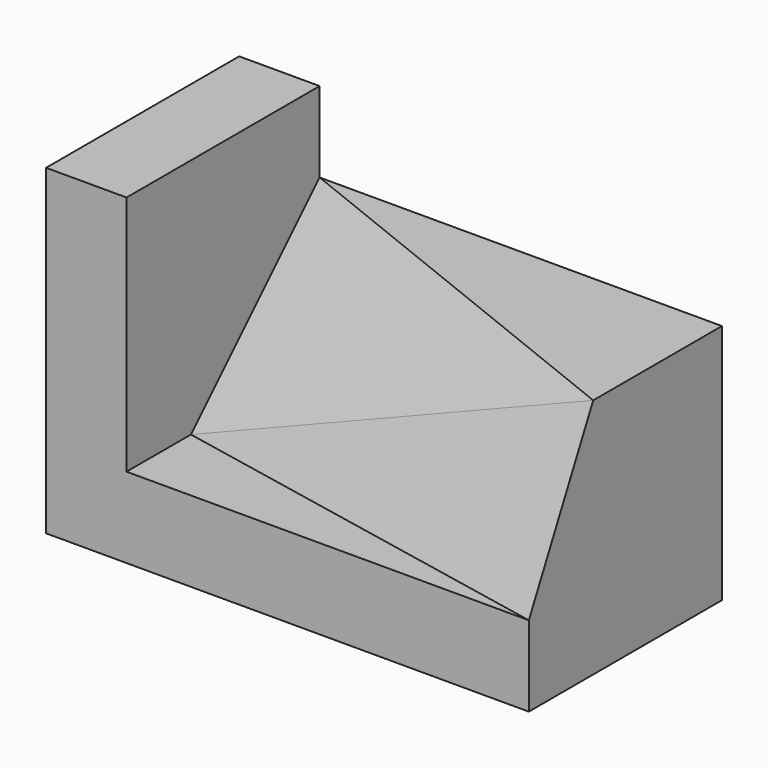
from build123d import *

# Parameters (mm, degrees)
F0_W      = 6
F0_H      = 3
F1_DEPTH  = 4
F2_W      = 5
F2_H      = 3
F3_DEPTH  = 1
F4_W      = 5
F4_H      = 1
F5_DEPTH  = 2
F10_DEPTH = 1
F11_W     = 3
F11_H     = 3
F12_DEPTH = 25
F13_DEPTH = 1
F14_W     = 3
F14_H     = 3
F15_DEPTH = 1
F16_W     = 0.5303061543
F16_H     = 0.5303061543
F17_DEPTH = 1.4


with BuildPart() as f1:
    # F0 (on Top) → F1 (new body)
    with BuildSketch(Plane.XY):
        with Locations((3, 1.5)):
            Rectangle(F0_W, F0_H)
    extrude(amount=F1_DEPTH)

    # F2 (on face) → F3 (cut)
    with BuildSketch(Plane.XY.offset(4)):
        with Locations((3.5, 1.5)):
            Rectangle(F2_W, F2_H)
    extrude(amount=-F3_DEPTH, mode=Mode.SUBTRACT)

    # F4 (on face) → F5 (cut)
    with BuildSketch(Plane.XY.offset(3)):
        with Locations((3.5, 0.5)):
            Rectangle(F4_W, F4_H)
    extrude(amount=-F5_DEPTH, mode=Mode.SUBTRACT)

    # F9 (on 3pt) → F10 (join)
    with BuildSketch(Plane(origin=(0.1085271318, 0.5426356589, -0.2713178295), x_dir=(-0.9843740387, 0.1574998462, -0.0787499231), z_dir=(0.1760901813, 0.8804509063, -0.4402254532))):
        Polygon((-5.9849941553, 0.894427191), (-0.9056241156, 1.3416407865), (-5.9849941553, 3.1304951685), align=None)
    extrude(amount=F10_DEPTH)

    # F11 (on face) → F12 (cut)
    with BuildSketch(Plane.YZ.offset(6)):
        with Locations((1.5, 1.5)):
            Rectangle(F11_W, F11_H)
    extrude(amount=F12_DEPTH, mode=Mode.SUBTRACT)

    # F7 (on 3pt) → F13 (cut)
    with BuildSketch(Plane(origin=(0.0740740741, 0.1851851852, -0.1851851852), x_dir=(0.9622504486, -0.1924500897, 0.1924500897), z_dir=(-0.272165527, -0.6804138174, 0.6804138174))):
        Polygon((6.1584028714, 2.8284271247), (0.9622504486, 4.2426406871), (0.9622504486, 1.4142135624), align=None)
    extrude(amount=F13_DEPTH, mode=Mode.SUBTRACT)

    # F14 (on face) → F15 (join)
    with BuildSketch(Plane.YZ.offset(1)):
        with Locations((1.5, 2.5)):
            Rectangle(F14_W, F14_H)
    extrude(amount=-F15_DEPTH)

    # F16 (on face) → F17 (cut)
    with BuildSketch(Plane.YZ.offset(1)):
        with Locations((1.2651530772, 2.7348469228)):
            Rectangle(F16_W, F16_H)
    extrude(amount=F17_DEPTH, mode=Mode.SUBTRACT)


solid = f1.part
